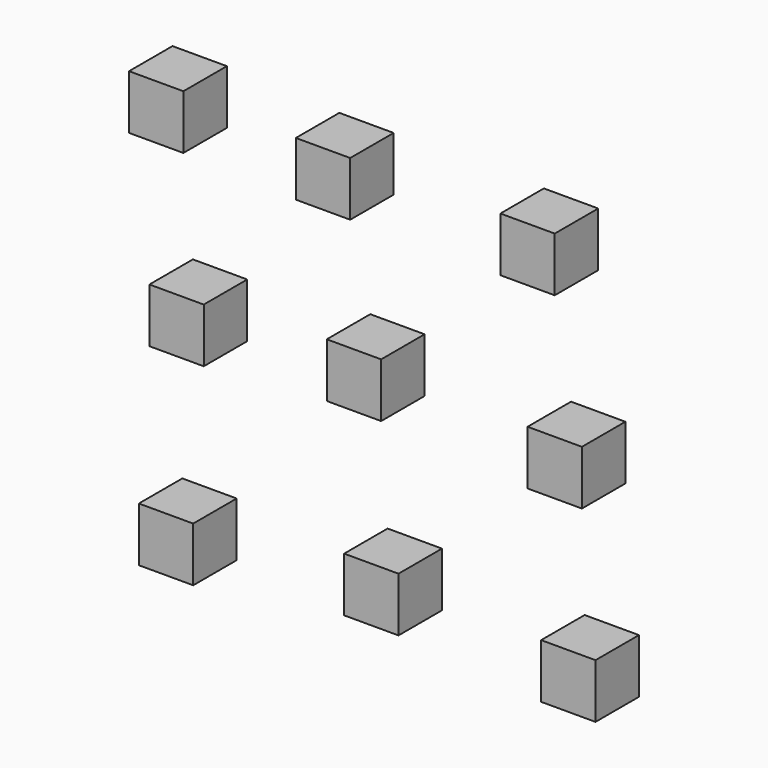
from build123d import *

# Parameters (mm, degrees)
F0_W     = 25.4
F0_H     = 25.4
F1_DEPTH = 25.4


with BuildPart() as f1:
    # F0 (on Front) → F1 (new body)
    with BuildSketch(Plane.XZ):
        with Locations((-95.006522, 92.9582)):
            Rectangle(F0_W, F0_H)
        with Locations((-17.042645, 90.84153)):
            Rectangle(F0_W, F0_H)
        with Locations((78.560111, 90.84153)):
            Rectangle(F0_W, F0_H)
        with Locations((-85.481516, 8.291551)):
            Rectangle(F0_W, F0_H)
        with Locations((-2.578759, 12.7)):
            Rectangle(F0_W, F0_H)
        with Locations((91.260109, 7.233217)):
            Rectangle(F0_W, F0_H)
        with Locations((-90.420404, -83.430657)):
            Rectangle(F0_W, F0_H)
        with Locations((5.535126, -72.847319)):
            Rectangle(F0_W, F0_H)
        with Locations((97.610107, -78.491759)):
            Rectangle(F0_W, F0_H)
    extrude(amount=F1_DEPTH)


solid = f1.part
